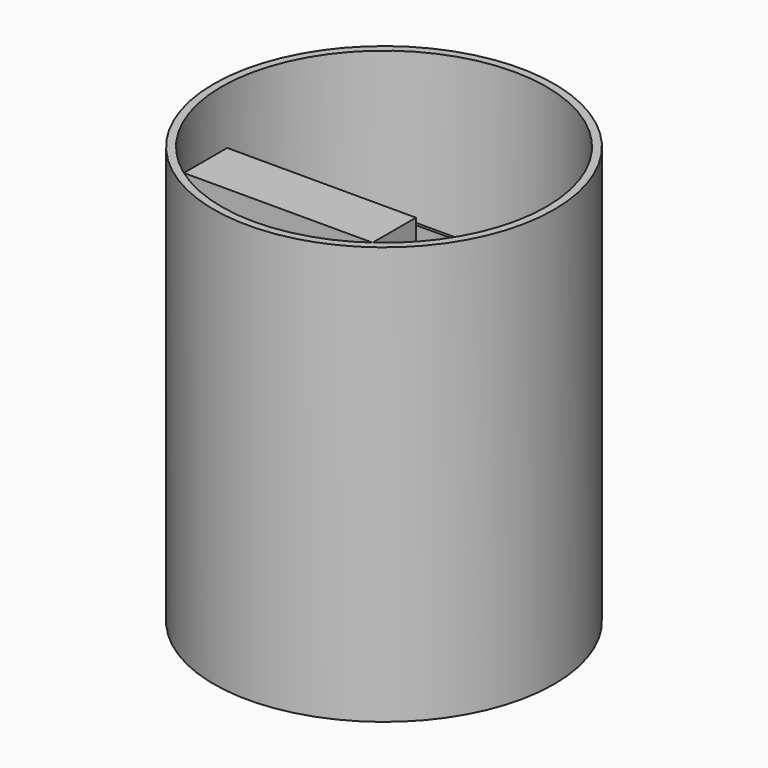
from build123d import *

# Parameters (mm, degrees)
F1_W     = 125
F1_H     = 100
F2_DEPTH = 63
F4_W     = 170
F4_H     = 2
F5_DEPTH = 170
F0_W     = 122
F0_H     = 35
F6_DEPTH = 270
F7_R     = 110
F7_R_2   = 105
F8_DEPTH = 270


with BuildPart() as f2:
    # F1 (on Top) → F2 (new body)
    with BuildSketch(Plane.XY):
        with Locations((0, 19.536558)):
            Rectangle(F1_W, F1_H)
    extrude(amount=F2_DEPTH)


with BuildPart() as f5:
    # F4 (on offset) → F5 (new body)
    with BuildSketch(Plane.XY.offset(75)):
        with Locations((0, -18.330927)):
            Rectangle(F4_W, F4_H)
    extrude(amount=F5_DEPTH)


with BuildPart() as f6:
    # F0 (on Top) → F6 (new body)
    with BuildSketch(Plane.XY):
        with Locations((0, -67.963442)):
            Rectangle(F0_W, F0_H)
    extrude(amount=F6_DEPTH)


with BuildPart() as f8:
    # F7 (on Top) → F8 (new body)
    with BuildSketch(Plane.XY):
        Circle(F7_R)
        Circle(F7_R_2, mode=Mode.SUBTRACT)
    extrude(amount=F8_DEPTH)


solid = Compound([f2.part, f5.part, f6.part, f8.part])
